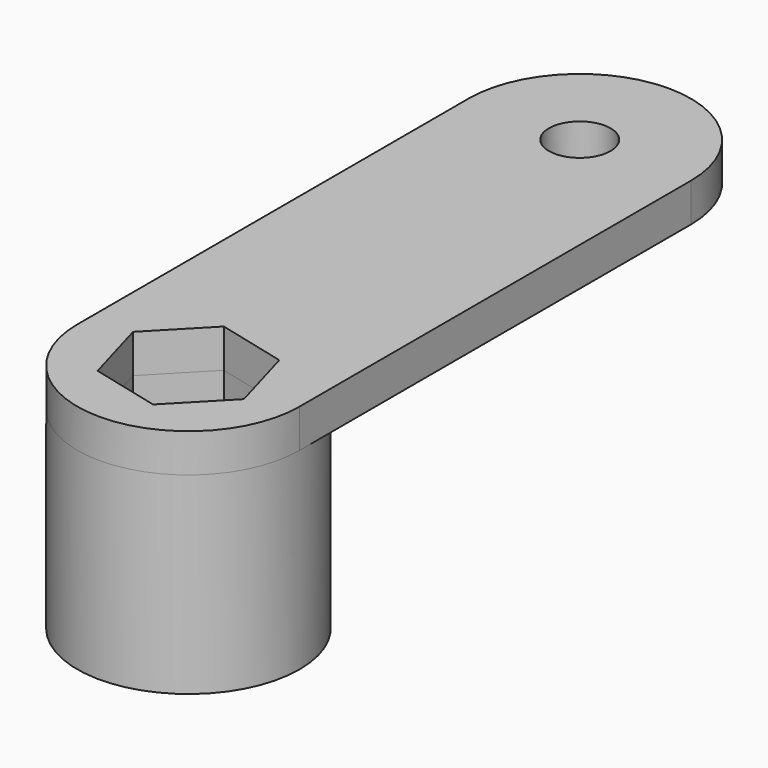
from build123d import *

# Parameters (mm, degrees)
F0_R     = 14.413893
F1_DEPTH = 25
F3_DEPTH = 5


with BuildPart() as f1:
    # F0 (on Top) → F1 (new body)
    with BuildSketch(Plane.XY):
        Circle(F0_R)
        Polygon((6.449648, 6.660601), (8.993074, -2.255258), (2.543426, -8.915859), (-6.449648, -6.660601), (-8.993074, 2.255258), (-2.543426, 8.915859), align=None, mode=Mode.SUBTRACT)
    extrude(amount=F1_DEPTH)

    # F2 (on face) → F3 (join)
    with BuildSketch(Plane.XY.offset(25)):
        with BuildLine():
            Line((-14.413893, 63.413893), (-14.413893, 0))
            ThreePointArc((-14.413893, 0), (0, 14.413893), (14.413893, 0))
            Line((14.413893, 0), (14.413893, 63.413893))
            Line((14.413893, 63.413893), (4, 63.413893))
            ThreePointArc((4, 63.413893), (0, 59.413893), (-4, 63.413893))
            Line((-4, 63.413893), (-14.413893, 63.413893))
        make_face()
        with BuildLine():
            ThreePointArc((14.413893, 0), (0, 14.413893), (-14.413893, 0))
            ThreePointArc((-14.413893, 0), (0, -14.413893), (14.413893, 0))
        make_face()
        Polygon((-2.543426, 8.915859), (6.449648, 6.660601), (8.993074, -2.255258), (2.543426, -8.915859), (-6.449648, -6.660601), (-8.993074, 2.255258), align=None, mode=Mode.SUBTRACT)
        with BuildLine():
            ThreePointArc((14.413893, 63.413893), (0, 77.827787), (-14.413893, 63.413893))
            Line((-14.413893, 63.413893), (-4, 63.413893))
            ThreePointArc((-4, 63.413893), (0, 67.413893), (4, 63.413893))
            Line((4, 63.413893), (14.413893, 63.413893))
        make_face()
    extrude(amount=F3_DEPTH)


solid = f1.part
